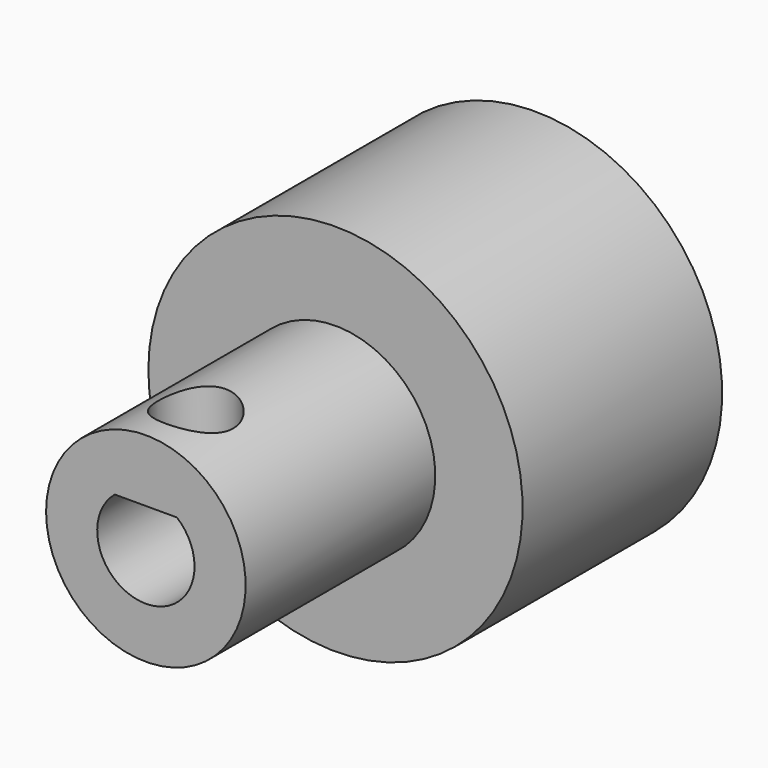
from build123d import *

# Parameters (mm, degrees)
SKETCH268_R             = 4
PAD107_DEPTH            = 9.5
SKETCH269_R             = 7.5
PAD108_DEPTH            = 10
SKETCH270_R             = 1.5
POCKET131_DEPTH         = 7.501
BODY096_ROLL_ANGLE      = 90
BODY096_PLACEMENT_ANGLE = 180


with BuildPart() as part:
    # Sketch268 → Pad107 (new body)
    with BuildSketch(Plane.XY):
        Circle(SKETCH268_R)
        with BuildLine():
            Line((-1.245994, 1.5), (1.245994, 1.5))
            ThreePointArc((-1.245994, 1.5), (0, -1.95), (1.245994, 1.5))
        make_face(mode=Mode.SUBTRACT)
    extrude(amount=PAD107_DEPTH)

    # Sketch269 (on Face5 of Pad107) → Pad108 (join)
    with BuildSketch(Plane.XY.offset(9.5)):
        Circle(SKETCH269_R)
    extrude(amount=PAD108_DEPTH)

    # Sketch270 → Pocket131 (cut, through all)
    with BuildSketch(Plane.XZ):
        with Locations((0, 2.5)):
            Circle(SKETCH270_R)
    extrude(amount=-POCKET131_DEPTH, mode=Mode.SUBTRACT)


with BuildPart() as part_1:
    # Body096 roll: moved
    add(part.part.rotate(Axis((0, 0, 0), (1, 0, 0)), BODY096_ROLL_ANGLE))


with BuildPart() as part_2:
    # Body096 placement: moved
    add(part_1.part.moved(Location((-44.5, 20.5, 19))).rotate(Axis((-44.5, 20.5, 19), (0, 0, 1)), BODY096_PLACEMENT_ANGLE))


solid = part_2.part
